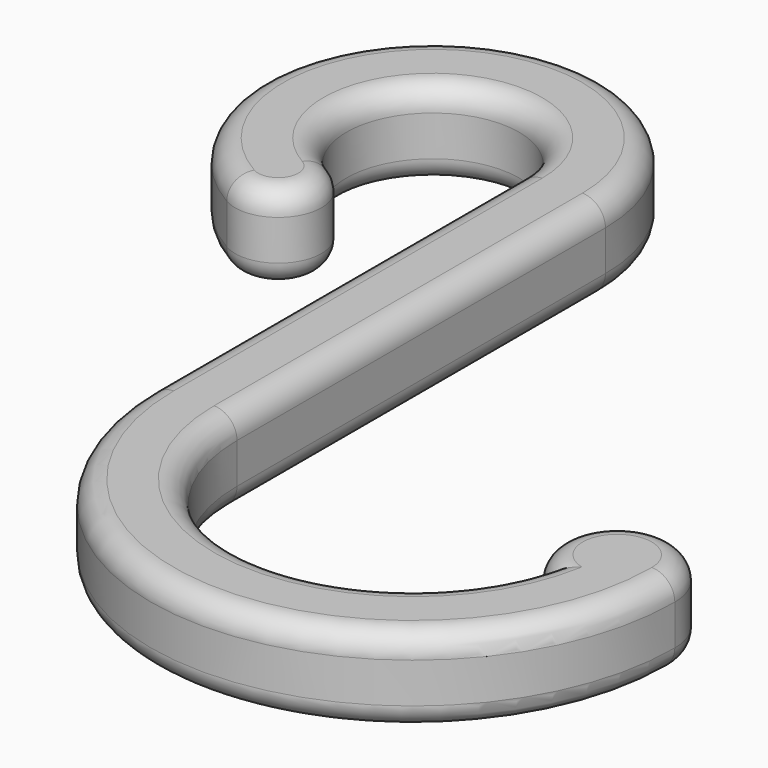
from build123d import *

# Parameters (mm, degrees)
F1_DEPTH = 9.525
F2_R     = 2.54


with BuildPart() as f1:
    # F0 (on Top) → F1 (new body)
    with BuildSketch(Plane.XY):
        with BuildLine():
            ThreePointArc((-23.8125, 42.551108), (-23.8125, 59.048892), (-9.525, 50.8))
            Line((-9.525, 50.8), (-9.525, 0))
            ThreePointArc((-9.525, 0), (19.385125, -28.910125), (48.295251, 0))
            ThreePointArc((48.295251, 0), (39.125219, 5.689457), (38.1, -5.05337))
            ThreePointArc((38.1, -5.05337), (16.836313, -19.216832), (0, 0))
            Line((0, 0), (0, 50.8))
            ThreePointArc((0, 50.8), (-28.575, 67.297784), (-28.575, 34.302216))
            ThreePointArc((-28.575, 34.302216), (-22.069304, 36.045412), (-23.8125, 42.551108))
        make_face()
    extrude(amount=F1_DEPTH)

    # F2
    f2_edges = [f1.edges().sort_by_distance(p)[0] for p in [
        (-23.8125, 59.048892, 9.525),
        (-9.525, 25.4, 9.525),
        (19.385125, -28.910125, 9.525),
        (39.125219, 5.689457, 9.525),
        (16.836313, -19.216832, 9.525),
        (0, 25.4, 9.525),
        (-28.575, 67.297784, 9.525),
        (-22.069304, 36.045412, 9.525),
        (-23.8125, 59.048892, 0),
        (-9.525, 25.4, 0),
        (19.385125, -28.910125, 0),
        (39.125219, 5.689457, 0),
        (16.836313, -19.216832, 0),
        (0, 25.4, 0),
        (-28.575, 67.297784, 0),
        (-22.069304, 36.045412, 0),
    ]]
    fillet(f2_edges, radius=F2_R)


solid = f1.part
